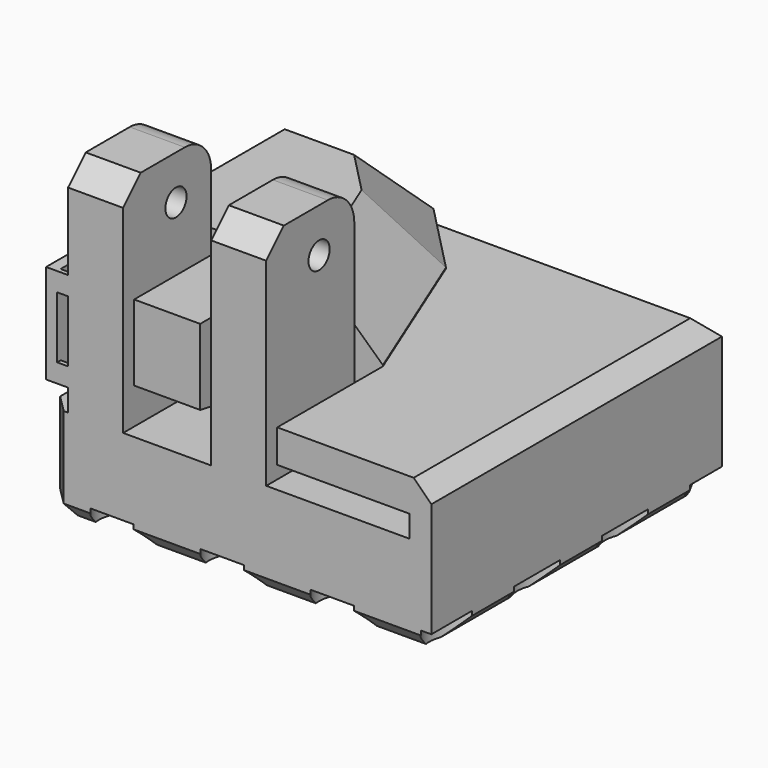
from build123d import *

# Parameters (mm, degrees)
SKETCH_W             = 35
SKETCH_H             = 33
PAD_DEPTH            = 20
SKETCH001_W          = 7
SKETCH001_H          = 12
POCKET_DEPTH         = 10
SKETCH004_W          = 36
SKETCH004_H          = 2
POCKET002_DEPTH      = 18.001
POCKET002_DEPTH_BACK = 15.001
SKETCH002_W          = 5
SKETCH002_H          = 10
PAD001_DEPTH         = 20
SKETCH003_R          = 1.2
POCKET001_DEPTH      = 22.001
POCKET003_DEPTH      = 6
CHAMFER_SIZE         = 5.9
CHAMFER001_SIZE      = 1.6
CHAMFER002_SIZE      = 2
FILLET_R             = 3
SKETCH010_R          = 2.8
POCKET006_DEPTH      = 2
LINEARPATTERN_COUNT  = 4
LINEARPATTERN_PITCH  = 10
SKETCH012_R          = 3.5
POCKET007_DEPTH      = 8
SKETCH013_W          = 3.523392
SKETCH013_H          = 1.7
SKETCH013_W_2        = 3.89822
PAD003_DEPTH         = 0.4
POCKET008_DEPTH      = 6


with BuildPart() as sphere:
    # Sphere → Sphere (revolve)
    with BuildSketch(Plane(origin=(-18, 7, 10), x_dir=(1, 0, 0), z_dir=(0, -1, 0))):
        with BuildLine():
            ThreePointArc((0, -8.3), (8.3, 0), (0, 8.3))
            Line((0, 8.3), (0, -8.3))
        make_face()
    revolve(axis=Axis((-18, 7, 10), (0, 0, 1)))


with BuildPart() as socket:
    # Sketch → Pad (new body)
    with BuildSketch(Plane.XY):
        with Locations((-4.5, 1.5)):
            Rectangle(SKETCH_W, SKETCH_H)
    extrude(amount=PAD_DEPTH)

    # Sketch001 (on Face6 of Pad) → Pocket (cut)
    with BuildSketch(Plane.XY.offset(20)):
        with Locations((-17.5, -9)):
            Rectangle(SKETCH001_W, SKETCH001_H)
        with Locations((-4.5, -9)):
            Rectangle(SKETCH001_W, SKETCH001_H)
    extrude(amount=-POCKET_DEPTH, mode=Mode.SUBTRACT)

    # Sketch004 → Pocket002 (cut, two sides)
    with BuildSketch(Plane.XZ) as pocket002_sk:
        with Locations((-7, 10)):
            Rectangle(SKETCH004_W, SKETCH004_H)
    extrude(amount=-POCKET002_DEPTH, mode=Mode.SUBTRACT)
    extrude(pocket002_sk.sketch, amount=POCKET002_DEPTH_BACK, mode=Mode.SUBTRACT)

    # Sketch002 (on Face8 of Pocket002) → Pad001 (join)
    with BuildSketch(Plane.XY.offset(9)):
        with Locations((-17.5, -10)):
            Rectangle(SKETCH002_W, SKETCH002_H)
        with Locations((-4.5, -10)):
            Rectangle(SKETCH002_W, SKETCH002_H)
    extrude(amount=PAD001_DEPTH)

    # Sketch003 → Pocket001 (cut, through all)
    with BuildSketch(Plane.YZ):
        with Locations((-9, 25)):
            Circle(SKETCH003_R)
    extrude(amount=-POCKET001_DEPTH, mode=Mode.SUBTRACT)

    # Sketch005 (on Face4 of Pocket001) → Pocket003 (cut)
    with BuildSketch(Plane.XY.offset(20)):
        Polygon((-6.878414, 11.506697), (-1, -3), (-1, -16.521692), (16.145611, -16.521692), (16.145611, 20.333527), (-18.556482, 20.333527), (-13.204168, 18), align=None)
    extrude(amount=-POCKET003_DEPTH, mode=Mode.SUBTRACT)

    # Chamfer
    chamfer_edges = [socket.edges().sort_by_distance(p)[0] for p in [
        (-17.602084, 18, 20),
        (-10.041291, 14.753349, 20),
        (-3.939207, 4.253349, 20),
    ]]
    chamfer(chamfer_edges, length=CHAMFER_SIZE)

    # Chamfer001
    chamfer001_edges = [socket.edges().sort_by_distance(p)[0] for p in [
        (-4.5, 18, 0),
        (13, 1.5, 0),
        (-4.5, -15, 0),
        (-22, 1.5, 0),
        (-22, 18, 4.5),
        (-22, -15, 4.5),
        (-22, 18, 12.55),
        (13, 1.5, 14),
        (-0.102084, 18, 14),
    ]]
    chamfer(chamfer001_edges, length=CHAMFER001_SIZE)

    # Chamfer002
    chamfer002_edges = [socket.edges().sort_by_distance(p)[0] for p in [
        (-17.5, -15, 29),
        (-4.5, -15, 29),
    ]]
    chamfer(chamfer002_edges, length=CHAMFER002_SIZE)

    # Fillet
    fillet_edges = [socket.edges().sort_by_distance(p)[0] for p in [
        (-4.5, -5, 29),
        (-17.5, -5, 29),
    ]]
    fillet(fillet_edges, radius=FILLET_R)

    # Sketch010 → Pocket006 (cut)
    with BuildSketch(Plane.XY):
        with Locations((14, -13)):
            Circle(SKETCH010_R)
        with Locations((4, -13)):
            Circle(SKETCH010_R)
        with Locations((-6, -13)):
            Circle(SKETCH010_R)
        with Locations((-16, -13)):
            Circle(SKETCH010_R)
    pocket006 = extrude(amount=POCKET006_DEPTH, mode=Mode.SUBTRACT)

    # LinearPattern: Pocket006 ×4
    with Locations(*[(0, i * LINEARPATTERN_PITCH, 0) for i in range(1, LINEARPATTERN_COUNT)]):
        add(pocket006, mode=Mode.SUBTRACT)

    # Sketch012 (on Face5 of Pad) → Pocket007 (cut)
    with BuildSketch(Plane(origin=(0, 0, 0), x_dir=(1, 0, 0), z_dir=(0, 0, -1))):
        with Locations((-16, -7)):
            Circle(SKETCH012_R)
    extrude(amount=-POCKET007_DEPTH, mode=Mode.SUBTRACT)

    # Sketch013 (on Face3 of Pad) → Pad003 (join)
    with BuildSketch(Plane.XZ.offset(15)):
        with Locations((-19.82605, 19.15)):
            Rectangle(SKETCH013_W, SKETCH013_H)
        with Locations((-19.451214, 11.85)):
            Rectangle(SKETCH013_W_2, SKETCH013_H)
    extrude(amount=-PAD003_DEPTH)

    # Sketch014 (on Face9 of Pocket) → Pocket008 (cut)
    with BuildSketch(Plane(origin=(-14, 0, 0), x_dir=(0, -1, 0), z_dir=(-1, 0, 0))):
        Polygon((3, 11), (23, 14.52654), (23, 11), align=None)
    extrude(amount=-POCKET008_DEPTH, mode=Mode.SUBTRACT)

    # Cut: cut Sphere
    add(sphere.part, mode=Mode.SUBTRACT)


solid = socket.part
